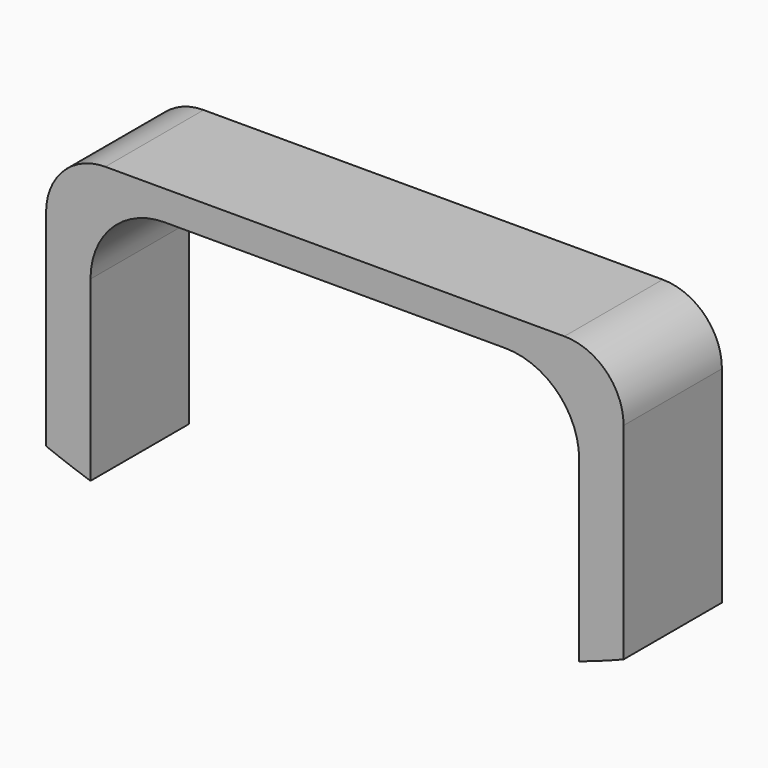
from build123d import *

# Parameters (mm, degrees)
F1_DEPTH = 8.3


with BuildPart() as f1:
    # F0 (on Front) → F1 (new body)
    with BuildSketch(Plane.XZ):
        with BuildLine():
            Line((35, 0), (4, 0))
            ThreePointArc((4, 0), (1.171573, -1.171573), (0, -4))
            Line((0, -4), (0, -17.908077))
            ThreePointArc((0, -17.908077), (1.491722, -18.476782), (3, -19))
            Line((3, -19), (3, -7))
            ThreePointArc((3, -7), (4.464466, -3.464466), (8, -2))
            Line((8, -2), (31, -2))
            ThreePointArc((31, -2), (34.535534, -3.464466), (36, -7))
            Line((36, -7), (36, -19))
            ThreePointArc((36, -19), (37.508278, -18.476782), (39, -17.908077))
            Line((39, -17.908077), (39, -4))
            ThreePointArc((39, -4), (37.828427, -1.171573), (35, 0))
        make_face()
    extrude(amount=-F1_DEPTH)


solid = f1.part
